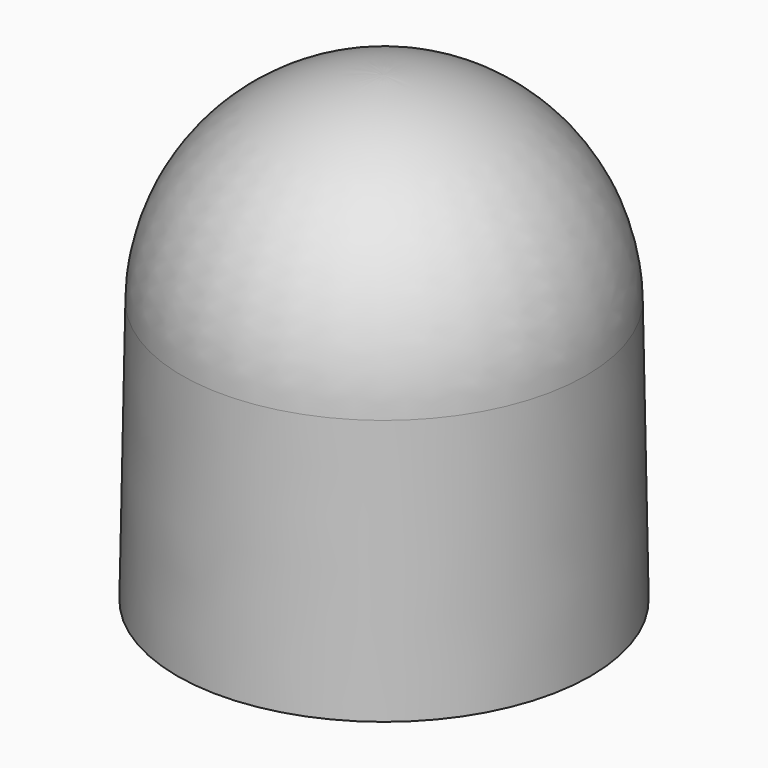
from build123d import *

# Parameters (mm, degrees)
F2_T = -2


with BuildPart() as f1:
    # F0 (on Front) → F1 (revolve)
    with BuildSketch(Plane.XZ):
        with BuildLine():
            Line((0, 45), (0, 0))
            Line((0, 0), (20.15, 0))
            Line((20.15, 0), (19.70248, 25.638427))
            ThreePointArc((19.70248, 25.638427), (13.811754, 39.349462), (0, 45))
        make_face()
    revolve(axis=Axis((0, 0, 22.5), (0, 0, 1)))

    # F2
    f2_openings = [f1.faces().sort_by_distance(p)[0] for p in [
        (0, 0, 0),
    ]]
    offset(amount=F2_T, openings=f2_openings)


solid = f1.part
